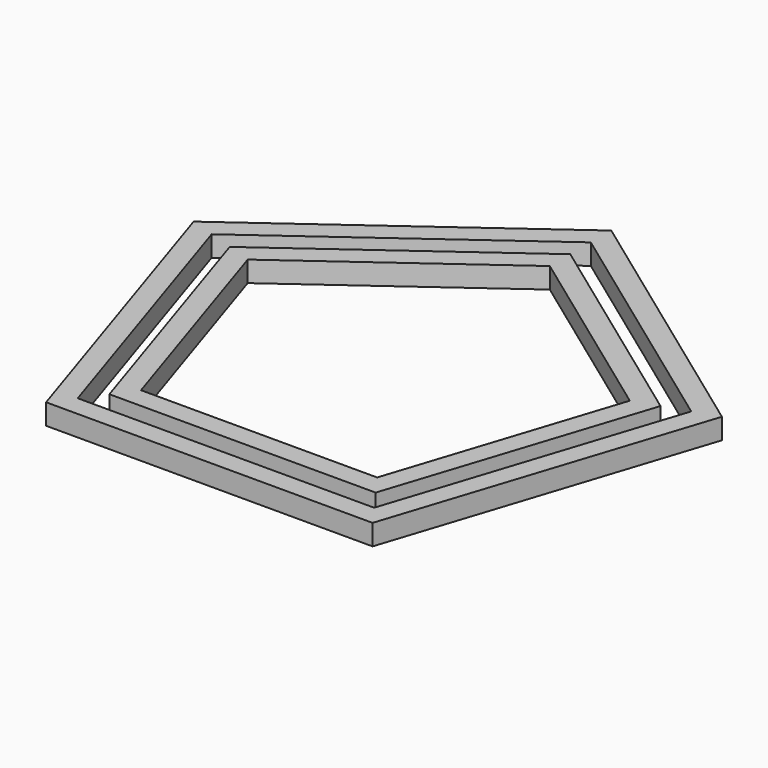
from build123d import *

# Parameters (mm, degrees)
F1_DEPTH = 20


with BuildPart() as f1:
    # F0 (on Top) → F1 (new body)
    with BuildSketch(Plane.XY):
        Polygon((-157.5, -216.780152), (157.5, -216.780152), (254.840353, 82.80265), (0, 267.955005), (-254.840353, 82.80265), align=None)
        Polygon((-231.328943, 75.16333), (0, 243.233645), (231.328943, 75.16333), (142.969149, -196.780152), (-142.969149, -196.780152), align=None, mode=Mode.SUBTRACT)
        Polygon((207.817533, 67.52401), (0, 218.512286), (-207.817533, 67.52401), (-128.438299, -176.780152), (128.438299, -176.780152), align=None)
        Polygon((-184.306123, 59.884689), (0, 193.790926), (184.306123, 59.884689), (113.907448, -156.780152), (-113.907448, -156.780152), align=None, mode=Mode.SUBTRACT)
    extrude(amount=-F1_DEPTH)


solid = f1.part
